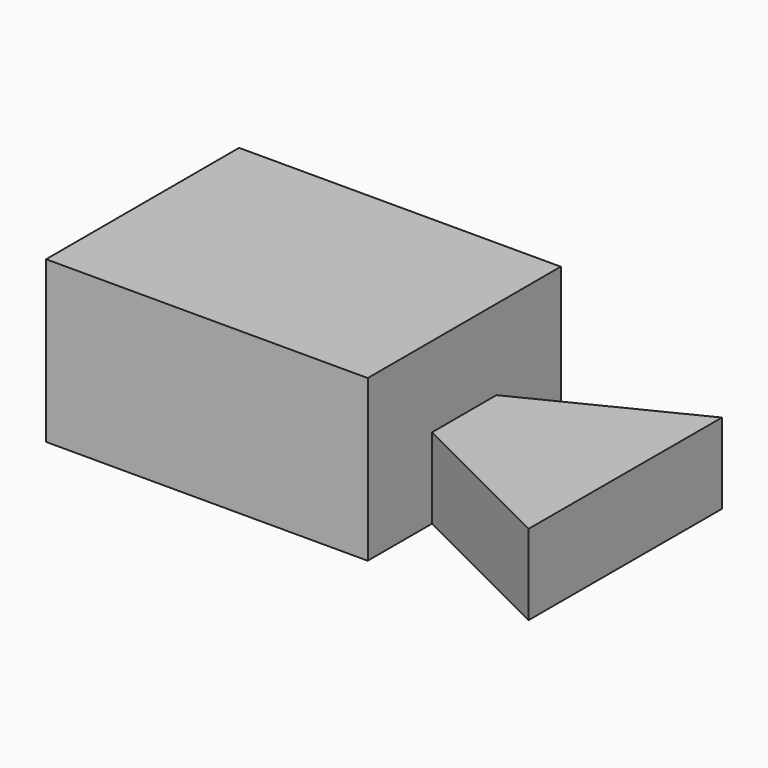
from build123d import *

# Parameters (mm, degrees)
F0_W     = 101.6
F0_H     = 50.8
F1_DEPTH = 76.2
F3_DEPTH = 25.4


with BuildPart() as f1:
    # F0 (on Front) → F1 (new body)
    with BuildSketch(Plane.XZ):
        with Locations((-50.8, 25.4)):
            Rectangle(F0_W, F0_H)
    extrude(amount=F1_DEPTH)

    # F2 (on face) → F3 (join)
    with BuildSketch(Plane(origin=(0, 0, 0), x_dir=(1, 0, 0), z_dir=(0, 0, -1))):
        Polygon((0, 50.8), (0, 25.4), (50.9050786495, 0), (50.8, 76.2), align=None)
    extrude(amount=-F3_DEPTH)


solid = f1.part
